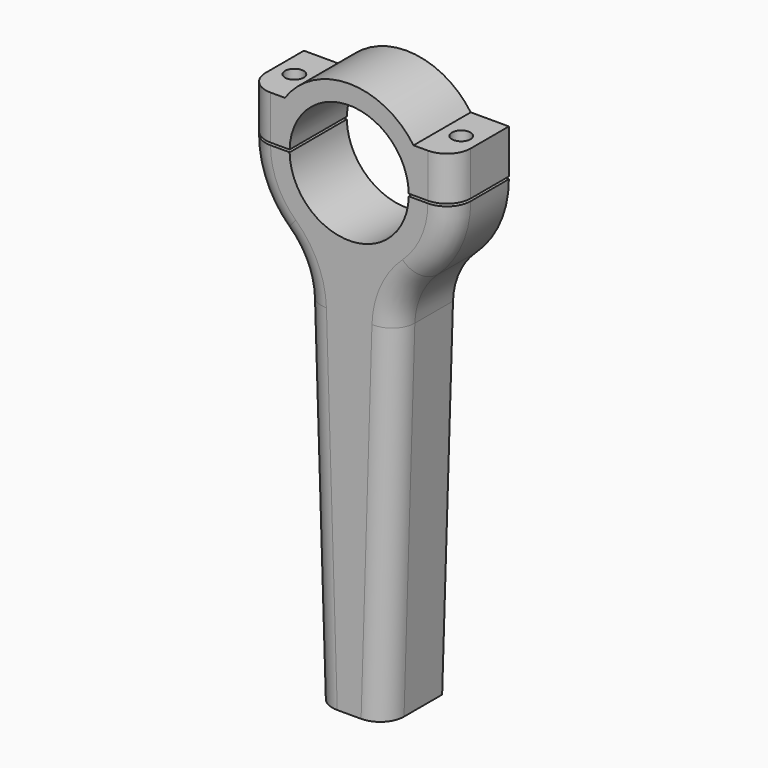
from build123d import *

# Parameters (mm, degrees)
F1_DEPTH = 7.5
F3_D     = 2.9
F3_DEPTH = 10
F3_TIP   = 0.8712478976
F4_R     = 15
F5_R     = 5
F7_DEPTH = 7.5
F8_D     = 3.9
F9_R     = 5


with BuildPart() as f1:
    # F0 (on Front) → F1 (new body, symmetric)
    with BuildSketch(Plane.XZ):
        with BuildLine():
            ThreePointArc((12.4974997499, -0.25), (0, -12.5), (-12.4974997499, -0.25))
            Line((-12.4974997499, -0.25), (-21.4974997499, -0.25))
            ThreePointArc((-21.4974997499, -0.25), (-18.3999659374, -11.3668227925), (-10, -19.2800419206))
            Line((-10, -19.2800419206), (-7.5, -100))
            Line((-7.5, -100), (7.5, -100))
            Line((7.5, -100), (10, -19.2800419206))
            ThreePointArc((10, -19.2800419206), (18.3999659374, -11.3668227925), (21.4974997499, -0.25))
            Line((21.4974997499, -0.25), (12.4974997499, -0.25))
        make_face()
    extrude(amount=F1_DEPTH, both=True)

    # F3
    with Locations(Plane.XY.offset(-0.25)):
        with Locations((-17.5, 0), (17.5, 0)):
            Hole(F3_D / 2, depth=F3_DEPTH)
            with Locations((0, 0, -(F3_DEPTH + F3_TIP / 2))):  # 118° drill point
                Cone(0, F3_D / 2, F3_TIP, mode=Mode.SUBTRACT)

    # F4
    f4_edges = [f1.edges().sort_by_distance(p)[0] for p in [
        (-10, 0, -19.280042),
        (10, 0, -19.280042),
    ]]
    fillet(f4_edges, radius=F4_R)

    # F5
    f5_edges = [f1.edges().sort_by_distance(p)[0] for p in [
        (-8.636735, -7.5, -63.297106),
        (8.636735, -7.5, -63.297106),
    ]]
    fillet(f5_edges, radius=F5_R)


with BuildPart() as f7:
    # F6 (on Front) → F7 (new body, symmetric)
    with BuildSketch(Plane.XZ):
        with BuildLine():
            Line((-21.4974997499, 0.25), (-12.4974997499, 0.25))
            ThreePointArc((-12.4974997499, 0.25), (0, 12.5), (12.4974997499, 0.25))
            Line((12.4974997499, 0.25), (21.4974997499, 0.25))
            Line((21.4974997499, 0.25), (21.4974997499, 9.4903899024))
            Line((21.4974997499, 9.4903899024), (13.4974997499, 9.4903899024))
            ThreePointArc((13.4974997499, 9.4903899024), (0, 16.5), (-13.4974997499, 9.4903899024))
            Line((-13.4974997499, 9.4903899024), (-21.4974997499, 9.4903899024))
            Line((-21.4974997499, 9.4903899024), (-21.4974997499, 0.25))
        make_face()
    extrude(amount=F7_DEPTH, both=True)

    # F8 (through all)
    with Locations(Plane(origin=(0, 0, -0.25), x_dir=(1, 0, 0), z_dir=(0, 0, -1))):
        with Locations((-17.5, 0), (17.5, 0)):
            Hole(F8_D / 2)

    # F9
    f9_edges = [f7.edges().sort_by_distance(p)[0] for p in [
        (-21.4975, -7.5, 4.870195),
        (21.4975, -7.5, 4.870195),
    ]]
    fillet(f9_edges, radius=F9_R)


solid = Compound([f1.part, f7.part])
